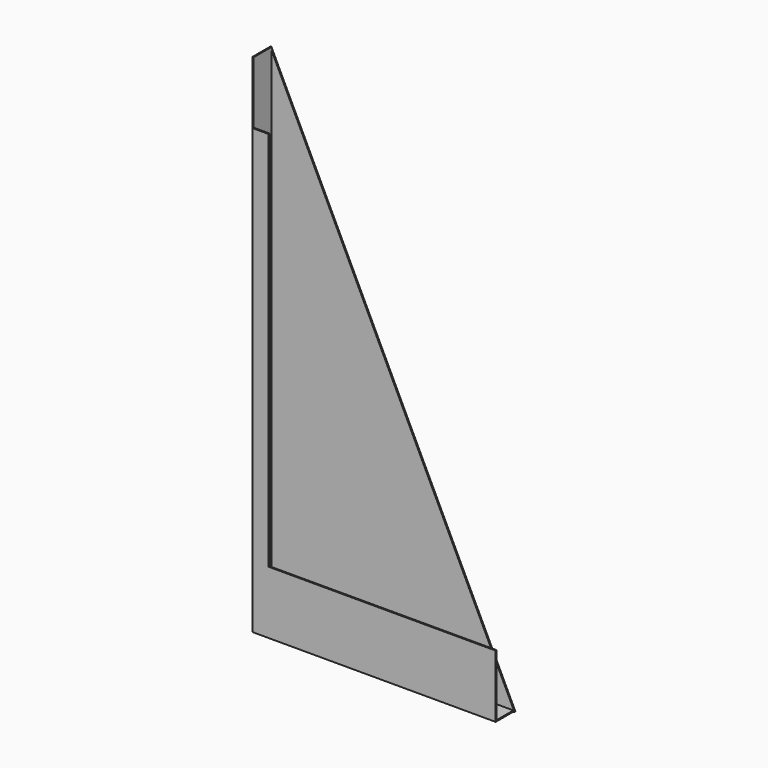
from build123d import *

# Parameters (mm, degrees)
F1_DEPTH  = 6.35
F2_W      = 5.715
F2_H      = 16.8021
F3_DEPTH  = 33.011516
F4_W      = 3.99288
F4_H      = 5.715
F5_DEPTH  = 68.7705
F6_W      = 0.3175
F6_H      = 138.176
F7_DEPTH  = 63.5
F9_DEPTH  = 25.4
F10_W     = 6.0325
F10_H     = 18.3896
F11_DEPTH = 67.49388
F13_DEPTH = 0.3175
F14_W     = 0.3175
F14_H     = 17.1196
F15_DEPTH = 6.0325


with BuildPart() as f1:
    # F0 (on Front) → F1 (new body)
    with BuildSketch(Plane.XZ):
        Polygon((-33.528, 69.088), (-33.528, -69.088), (33.130033, -69.088), (33.130033, -51.9684), (-29.21762, -51.9684), (-29.21762, 60.152978), (-29.21762, 69.088), align=None)
    extrude(amount=F1_DEPTH)

    # F2 (on Right) → F3 (cut, symmetric)
    with BuildSketch(Plane.YZ):
        with Locations((-3.175, 60.36945)):
            Rectangle(F2_W, F2_H)
        with Locations((-3.175, -60.36945)):
            Rectangle(F2_W, F2_H)
    extrude(amount=F3_DEPTH, both=True, mode=Mode.SUBTRACT)

    # F4 (on Top) → F5 (cut, symmetric)
    with BuildSketch(Plane.XY):
        with Locations((-31.21406, -3.175)):
            Rectangle(F4_W, F4_H)
    extrude(amount=F5_DEPTH, both=True, mode=Mode.SUBTRACT)

    # F6 (on face) → F7 (join)
    with BuildSketch(Plane.YZ.offset(-29.21762)):
        with Locations((-0.15875, 0)):
            Rectangle(F6_W, F6_H)
    extrude(amount=F7_DEPTH)

    # F8 (on face) → F9 (cut)
    with BuildSketch(Plane.YZ.offset(33.130033)):
        Polygon((-6.0325, -51.9684), (-6.0325, -68.7705), (-0.3175, -68.7705), (-0.3175, -52.373883), (-0.3175, -51.9684), align=None)
    extrude(amount=-F9_DEPTH, mode=Mode.SUBTRACT)

    # F10 (on face) → F11 (cut, through all)
    with BuildSketch(Plane.YZ.offset(-33.2105)):
        with Locations((-3.33375, 61.1632)):
            Rectangle(F10_W, F10_H)
    extrude(amount=F11_DEPTH, mode=Mode.SUBTRACT)

    # F12 (on face) → F13 (cut)
    with BuildSketch(Plane(origin=(0, 0, 0), x_dir=(-1, 0, 0), z_dir=(0, 1, 0))):
        Polygon((33.528, 69.088), (-34.28238, 69.088), (-34.28238, -69.088), (-33.130033, -69.088), align=None)
    extrude(amount=-F13_DEPTH, mode=Mode.SUBTRACT)

    # F14 (on face) → F15 (cut, through all)
    with BuildSketch(Plane.XZ.offset(6.35)):
        with Locations((32.971283, -60.5282)):
            Rectangle(F14_W, F14_H)
    extrude(amount=-F15_DEPTH, mode=Mode.SUBTRACT)


solid = f1.part
